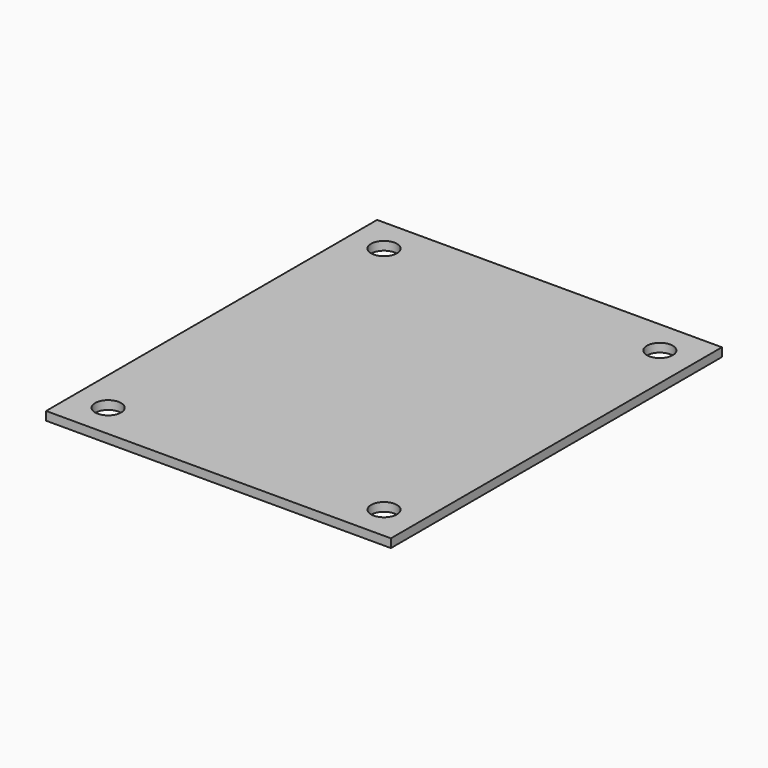
from build123d import *

# Parameters (mm, degrees)
F0_W     = 127
F0_H     = 152.4
F1_DEPTH = 3.175
F2_R     = 4.7625
F3_DEPTH = 25.4


with BuildPart() as f1:
    # F0 (on Top) → F1 (new body)
    with BuildSketch(Plane.XY):
        with Locations((-2e-06, -0.949175)):
            Rectangle(F0_W, F0_H)
    extrude(amount=F1_DEPTH)

    # F2 (on face) → F3 (cut)
    with BuildSketch(Plane.XY.offset(3.175)):
        with Locations((-50.800002, -64.449175)):
            Circle(F2_R)
        with Locations((50.799998, -64.449175)):
            Circle(F2_R)
        with Locations((-50.800002, 62.550825)):
            Circle(F2_R)
        with Locations((50.799998, 62.550825)):
            Circle(F2_R)
    extrude(amount=-F3_DEPTH, mode=Mode.SUBTRACT)


solid = f1.part
